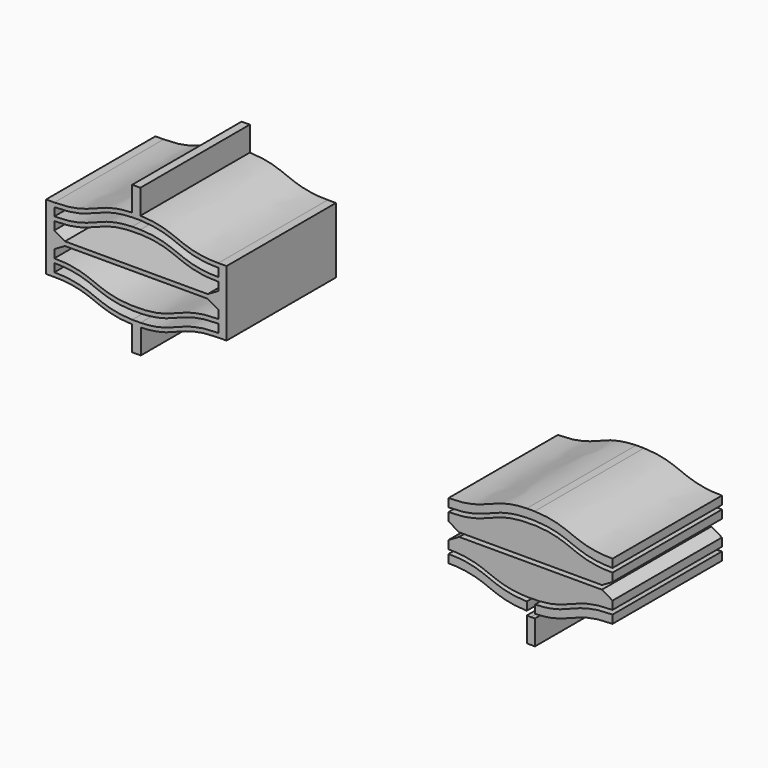
from build123d import *

# Parameters (mm, degrees)
F1_DEPTH = 25


with BuildPart() as f1:
    # F0 (on Front) → F1 (new body)
    with BuildSketch(Plane.XZ):
        with BuildLine():
            Line((-70.5796364978, 35.3922716716), (-72.0796364978, 35.3922716716))
            Line((-72.0796364978, 35.3922716716), (-72.0796364978, 23.3922716716))
            Line((-72.0796364978, 23.3922716716), (-70.5796364978, 23.3922716716))
            add(Edge.make_bspline(
                [(-56.3296364978, 20.4027351039), (-59.5883560247, 20.4957594824), (-63.2089962613, 21.944015577), (-66.8296364978, 23.3922716716), (-70.5796364978, 23.3922716716)],
                knots=[0.0344959369, 0.0344959369, 0.0344959369, 0.0344959369, 0.5, 1, 1, 1, 1], degree=3))
            add(Edge.make_bspline(
                [(-55.5796364978, 20.3922716716), (-55.8383560247, 20.3922716716), (-56.0881507791, 20.3958415806), (-56.3296364978, 20.4027351039)],
                knots=[0, 0, 0, 0, 0.0344959369, 0.0344959369, 0.0344959369, 0.0344959369], degree=3))
            add(Edge.make_bspline(
                [(-54.7598734185, 20.4048260632), (-55.0229364548, 20.3965647366), (-55.2959201451, 20.3922716716), (-55.5796364978, 20.3922716716)],
                knots=[0.962171153, 0.962171153, 0.962171153, 0.962171153, 1, 1, 1, 1], degree=3))
            add(Edge.make_bspline(
                [(-40.5796364978, 23.3922716716), (-44.3296364978, 23.3922716716), (-47.9377783214, 21.9490149422), (-51.5459201451, 20.5057582127), (-54.7598734185, 20.4048260632)],
                knots=[0, 0, 0, 0, 0.5, 0.962171153, 0.962171153, 0.962171153, 0.962171153], degree=3))
            Line((-40.5796364978, 23.3922716716), (-39.0796364978, 23.3922716716))
            Line((-39.0796364978, 23.3922716716), (-39.0796364978, 35.3922716716))
            Line((-39.0796364978, 35.3922716716), (-40.5796364978, 35.3922716716))
            add(Edge.make_bspline(
                [(-54.8296364978, 38.3818082394), (-51.5709169709, 38.2887838609), (-47.9502767344, 36.8405277663), (-44.3296364978, 35.3922716716), (-40.5796364978, 35.3922716716)],
                knots=[0.0344959369, 0.0344959369, 0.0344959369, 0.0344959369, 0.5, 1, 1, 1, 1], degree=3))
            add(Edge.make_bspline(
                [(-55.5796364978, 38.3922716716), (-55.3209169709, 38.3922716716), (-55.0711222165, 38.3887017626), (-54.8296364978, 38.3818082394)],
                knots=[0, 0, 0, 0, 0.0344959369, 0.0344959369, 0.0344959369, 0.0344959369], degree=3))
            add(Edge.make_bspline(
                [(-56.3296364978, 38.3818082394), (-56.0881507791, 38.3887017626), (-55.8383560247, 38.3922716716), (-55.5796364978, 38.3922716716)],
                knots=[0.9655040631, 0.9655040631, 0.9655040631, 0.9655040631, 1, 1, 1, 1], degree=3))
            add(Edge.make_bspline(
                [(-70.5796364978, 35.3922716716), (-66.8296364978, 35.3922716716), (-63.2089962613, 36.8405277663), (-59.5883560247, 38.2887838609), (-56.3296364978, 38.3818082394)],
                knots=[0, 0, 0, 0, 0.5, 0.9655040631, 0.9655040631, 0.9655040631, 0.9655040631], degree=3))
        make_face()
        with BuildLine():
            Line((-70.5796364978, 24.1422716716), (-70.5796364978, 25.6422716716))
            add(Edge.make_bspline(
                [(-56.3296364978, 22.6527351039), (-59.5883560247, 22.7457594824), (-63.2089962613, 24.194015577), (-66.8296364978, 25.6422716716), (-70.5796364978, 25.6422716716)],
                knots=[0.0344959369, 0.0344959369, 0.0344959369, 0.0344959369, 0.5, 1, 1, 1, 1], degree=3))
            add(Edge.make_bspline(
                [(-55.5796364978, 22.6422716716), (-55.8383560247, 22.6422716716), (-56.0881507791, 22.6458415806), (-56.3296364978, 22.6527351039)],
                knots=[0, 0, 0, 0, 0.0344959369, 0.0344959369, 0.0344959369, 0.0344959369], degree=3))
            add(Edge.make_bspline(
                [(-54.8296364978, 22.6527351039), (-55.0711222165, 22.6458415806), (-55.3209169709, 22.6422716716), (-55.5796364978, 22.6422716716)],
                knots=[0.9655040631, 0.9655040631, 0.9655040631, 0.9655040631, 1, 1, 1, 1], degree=3))
            add(Edge.make_bspline(
                [(-40.5796364978, 25.6422716716), (-44.3296364978, 25.6422716716), (-47.9502767344, 24.194015577), (-51.5709169709, 22.7457594824), (-54.8296364978, 22.6527351039)],
                knots=[0, 0, 0, 0, 0.5, 0.9655040631, 0.9655040631, 0.9655040631, 0.9655040631], degree=3))
            Line((-40.5796364978, 25.6422716716), (-40.5796364978, 24.1422716716))
            add(Edge.make_bspline(
                [(-40.5796364978, 24.1422716716), (-44.3296364978, 24.1422716716), (-47.9502767344, 22.694015577), (-51.5709169709, 21.2457594824), (-54.8296364978, 21.1527351039)],
                knots=[0, 0, 0, 0, 0.5, 0.9655040631, 0.9655040631, 0.9655040631, 0.9655040631], degree=3))
            add(Edge.make_bspline(
                [(-54.8296364978, 21.1527351039), (-55.0711222165, 21.1458415806), (-55.3209169709, 21.1422716716), (-55.5796364978, 21.1422716716)],
                knots=[0.9655040631, 0.9655040631, 0.9655040631, 0.9655040631, 1, 1, 1, 1], degree=3))
            add(Edge.make_bspline(
                [(-55.5796364978, 21.1422716716), (-55.8383560247, 21.1422716716), (-56.0881507791, 21.1458415806), (-56.3296364978, 21.1527351039)],
                knots=[0, 0, 0, 0, 0.0344959369, 0.0344959369, 0.0344959369, 0.0344959369], degree=3))
            add(Edge.make_bspline(
                [(-56.3296364978, 21.1527351039), (-59.5883560247, 21.2457594824), (-63.2089962613, 22.694015577), (-66.8296364978, 24.1422716716), (-70.5796364978, 24.1422716716)],
                knots=[0.0344959369, 0.0344959369, 0.0344959369, 0.0344959369, 0.5, 1, 1, 1, 1], degree=3))
        make_face(mode=Mode.SUBTRACT)
        with BuildLine():
            Line((-70.5796364978, 26.3922716716), (-70.5796364978, 27.8922716716))
            Line((-70.5796364978, 27.8922716716), (-68.6310793393, 29.0172716716))
            Line((-68.6310793393, 29.0172716716), (-42.5281936563, 29.0172716716))
            Line((-42.5281936563, 29.0172716716), (-40.5796364978, 27.8922716716))
            Line((-40.5796364978, 27.8922716716), (-40.5796364978, 26.3922716716))
            add(Edge.make_bspline(
                [(-40.5796364978, 26.3922716716), (-44.3296364978, 26.3922716716), (-48.0796364978, 24.8922716716), (-51.8296364978, 23.3922716716), (-55.5796364978, 23.3922716716)],
                knots=[0, 0, 0, 0, 0.5, 1, 1, 1, 1], degree=3))
            add(Edge.make_bspline(
                [(-55.5796364978, 23.3922716716), (-59.3296364978, 23.3922716716), (-63.0796364978, 24.8922716716), (-66.8296364978, 26.3922716716), (-70.5796364978, 26.3922716716)],
                knots=[0, 0, 0, 0, 0.5, 1, 1, 1, 1], degree=3))
        make_face(mode=Mode.SUBTRACT)
        with BuildLine():
            Line((-68.6310793393, 29.7672716716), (-70.5796364978, 30.8922716716))
            Line((-70.5796364978, 30.8922716716), (-70.5796364978, 32.3922716716))
            add(Edge.make_bspline(
                [(-70.5796364978, 32.3922716716), (-66.8296364978, 32.3922716716), (-63.0796364978, 33.8922716716), (-59.3296364978, 35.3922716716), (-55.5796364978, 35.3922716716)],
                knots=[0, 0, 0, 0, 0.5, 1, 1, 1, 1], degree=3))
            add(Edge.make_bspline(
                [(-55.5796364978, 35.3922716716), (-51.8296364978, 35.3922716716), (-48.0796364978, 33.8922716716), (-44.3296364978, 32.3922716716), (-40.5796364978, 32.3922716716)],
                knots=[0, 0, 0, 0, 0.5, 1, 1, 1, 1], degree=3))
            Line((-40.5796364978, 32.3922716716), (-40.5796364978, 30.8922716716))
            Line((-40.5796364978, 30.8922716716), (-42.5281936563, 29.7672716716))
            Line((-42.5281936563, 29.7672716716), (-55.5796364978, 29.7672716716))
            Line((-55.5796364978, 29.7672716716), (-68.6310793393, 29.7672716716))
        make_face(mode=Mode.SUBTRACT)
        with BuildLine():
            Line((-70.5796364978, 33.1422716716), (-70.5796364978, 34.6422716716))
            add(Edge.make_bspline(
                [(-70.5796364978, 34.6422716716), (-66.8296364978, 34.6422716716), (-63.2089962613, 36.0905277663), (-59.5883560247, 37.5387838609), (-56.3296364978, 37.6318082394)],
                knots=[0, 0, 0, 0, 0.5, 0.9655040631, 0.9655040631, 0.9655040631, 0.9655040631], degree=3))
            add(Edge.make_bspline(
                [(-56.3296364978, 37.6318082394), (-56.0881507791, 37.6387017626), (-55.8383560247, 37.6422716716), (-55.5796364978, 37.6422716716)],
                knots=[0.9655040631, 0.9655040631, 0.9655040631, 0.9655040631, 1, 1, 1, 1], degree=3))
            add(Edge.make_bspline(
                [(-55.5796364978, 37.6422716716), (-55.3209169709, 37.6422716716), (-55.0711222165, 37.6387017626), (-54.8296364978, 37.6318082394)],
                knots=[0, 0, 0, 0, 0.0344959369, 0.0344959369, 0.0344959369, 0.0344959369], degree=3))
            add(Edge.make_bspline(
                [(-54.8296364978, 37.6318082394), (-51.5709169709, 37.5387838609), (-47.9502767344, 36.0905277663), (-44.3296364978, 34.6422716716), (-40.5796364978, 34.6422716716)],
                knots=[0.0344959369, 0.0344959369, 0.0344959369, 0.0344959369, 0.5, 1, 1, 1, 1], degree=3))
            Line((-40.5796364978, 34.6422716716), (-40.5796364978, 33.1422716716))
            add(Edge.make_bspline(
                [(-54.8296364978, 36.1318082394), (-51.5709169709, 36.0387838609), (-47.9502767344, 34.5905277663), (-44.3296364978, 33.1422716716), (-40.5796364978, 33.1422716716)],
                knots=[0.0344959369, 0.0344959369, 0.0344959369, 0.0344959369, 0.5, 1, 1, 1, 1], degree=3))
            add(Edge.make_bspline(
                [(-55.5796364978, 36.1422716716), (-55.3209169709, 36.1422716716), (-55.0711222165, 36.1387017626), (-54.8296364978, 36.1318082394)],
                knots=[0, 0, 0, 0, 0.0344959369, 0.0344959369, 0.0344959369, 0.0344959369], degree=3))
            add(Edge.make_bspline(
                [(-56.3296364978, 36.1318082394), (-56.0881507791, 36.1387017626), (-55.8383560247, 36.1422716716), (-55.5796364978, 36.1422716716)],
                knots=[0.9655040631, 0.9655040631, 0.9655040631, 0.9655040631, 1, 1, 1, 1], degree=3))
            add(Edge.make_bspline(
                [(-70.5796364978, 33.1422716716), (-66.8296364978, 33.1422716716), (-63.2089962613, 34.5905277663), (-59.5883560247, 36.0387838609), (-56.3296364978, 36.1318082394)],
                knots=[0, 0, 0, 0, 0.5, 0.9655040631, 0.9655040631, 0.9655040631, 0.9655040631], degree=3))
        make_face(mode=Mode.SUBTRACT)
        with BuildLine():
            Line((-56.3296364978, 42.8818082394), (-56.3296364978, 38.3818082394))
            add(Edge.make_bspline(
                [(-56.3296364978, 38.3818082394), (-56.0881507791, 38.3887017626), (-55.8383560247, 38.3922716716), (-55.5796364978, 38.3922716716)],
                knots=[0.9655040631, 0.9655040631, 0.9655040631, 0.9655040631, 1, 1, 1, 1], degree=3))
            add(Edge.make_bspline(
                [(-55.5796364978, 38.3922716716), (-55.3209169709, 38.3922716716), (-55.0711222165, 38.3887017626), (-54.8296364978, 38.3818082394)],
                knots=[0, 0, 0, 0, 0.0344959369, 0.0344959369, 0.0344959369, 0.0344959369], degree=3))
            Line((-54.8296364978, 38.3818082394), (-54.8296364978, 42.8818082394))
            Line((-54.8296364978, 42.8818082394), (-56.3296364978, 42.8818082394))
        make_face()
        with BuildLine():
            add(Edge.make_bspline(
                [(-55.5796364978, 20.3922716716), (-55.8383560247, 20.3922716716), (-56.0881507791, 20.3958415806), (-56.3296364978, 20.4027351039)],
                knots=[0, 0, 0, 0, 0.0344959369, 0.0344959369, 0.0344959369, 0.0344959369], degree=3))
            Line((-56.3296364978, 20.4027351039), (-56.3296364978, 15.9027351039))
            Line((-56.3296364978, 15.9027351039), (-54.7598734185, 15.9027351039))
            Line((-54.7598734185, 15.9027351039), (-54.7598734185, 20.4048260632))
            add(Edge.make_bspline(
                [(-54.7598734185, 20.4048260632), (-55.0229364548, 20.3965647366), (-55.2959201451, 20.3922716716), (-55.5796364978, 20.3922716716)],
                knots=[0.962171153, 0.962171153, 0.962171153, 0.962171153, 1, 1, 1, 1], degree=3))
        make_face()
    extrude(amount=F1_DEPTH)


with BuildPart() as f1b:
    # F0 (on Front) → F1, piece 2 (new body)
    with BuildSketch(Plane.XZ):
        with BuildLine():
            Line((17.3197630793, -7.4874456084), (17.3197630793, -2.9874456084))
            add(Edge.make_bspline(
                [(17.3197630793, -2.9874456084), (17.0783287173, -2.9950277003), (16.8285379633, -2.9992672354), (16.5697630793, -2.9999131185)],
                knots=[0.962171153, 0.962171153, 0.962171153, 0.962171153, 0.9968897652, 0.9968897652, 0.9968897652, 0.9968897652], degree=3))
            add(Edge.make_bspline(
                [(16.5697630793, -2.9999131185), (16.3109881953, -2.9992672354), (16.0611974413, -2.9950277003), (15.8197630793, -2.9874456084)],
                knots=[0.0031102348, 0.0031102348, 0.0031102348, 0.0031102348, 0.037828847, 0.037828847, 0.037828847, 0.037828847], degree=3))
            Line((15.8197630793, -2.9874456084), (15.8197630793, -7.4874456084))
            Line((15.8197630793, -7.4874456084), (17.3197630793, -7.4874456084))
        make_face()
    extrude(amount=F1_DEPTH)


with BuildPart() as f1c:
    # F0 (on Front) → F1, piece 3 (new body)
    with BuildSketch(Plane.XZ):
        with BuildLine():
            add(Edge.make_bspline(
                [(17.25, 14.2395365677), (20.5087195269, 14.1465121892), (24.1293597634, 12.6982560946), (27.75, 11.25), (31.5, 11.25)],
                knots=[0.0344959369, 0.0344959369, 0.0344959369, 0.0344959369, 0.5, 1, 1, 1, 1], degree=3))
            Line((17.25, 14.2395365677), (17.25, 12.7395365677))
            add(Edge.make_bspline(
                [(17.25, 12.7395365677), (20.5087195269, 12.6465121892), (24.1293597634, 11.1982560946), (27.75, 9.75), (31.5, 9.75)],
                knots=[0.0344959369, 0.0344959369, 0.0344959369, 0.0344959369, 0.5, 1, 1, 1, 1], degree=3))
            Line((31.5, 9.75), (31.5, 11.25))
        make_face()
        with BuildLine():
            Line((17.25, 12.7395365677), (17.25, 14.2395365677))
            add(Edge.make_bspline(
                [(16.5, 14.25), (16.7587195269, 14.25), (17.0085142813, 14.246430091), (17.25, 14.2395365677)],
                knots=[0, 0, 0, 0, 0.0344959369, 0.0344959369, 0.0344959369, 0.0344959369], degree=3))
            add(Edge.make_bspline(
                [(15.8197630793, 14.2414294053), (16.0395181956, 14.2470824798), (16.2661121975, 14.25), (16.5, 14.25)],
                knots=[0.9688149597, 0.9688149597, 0.9688149597, 0.9688149597, 1, 1, 1, 1], degree=3))
            Line((15.8197630793, 14.2414294053), (15.8197630793, 12.7414294053))
            add(Edge.make_bspline(
                [(15.8197630793, 12.7414294053), (16.0395181956, 12.7470824798), (16.2661121975, 12.75), (16.5, 12.75)],
                knots=[0.9688149597, 0.9688149597, 0.9688149597, 0.9688149597, 1, 1, 1, 1], degree=3))
            add(Edge.make_bspline(
                [(16.5, 12.75), (16.7587195269, 12.75), (17.0085142813, 12.746430091), (17.25, 12.7395365677)],
                knots=[0, 0, 0, 0, 0.0344959369, 0.0344959369, 0.0344959369, 0.0344959369], degree=3))
        make_face()
        with BuildLine():
            Line((15.8197630793, 12.7414294053), (15.8197630793, 14.2414294053))
            add(Edge.make_bspline(
                [(1.5, 11.25), (5.25, 11.25), (8.8830560988, 12.7032224395), (12.5161121975, 14.156444879), (15.8197630793, 14.2414294053)],
                knots=[0, 0, 0, 0, 0.5, 0.9688149597, 0.9688149597, 0.9688149597, 0.9688149597], degree=3))
            Line((1.5, 11.25), (1.5, 9.75))
            add(Edge.make_bspline(
                [(1.5, 9.75), (5.25, 9.75), (8.8830560988, 11.2032224395), (12.5161121975, 12.656444879), (15.8197630793, 12.7414294053)],
                knots=[0, 0, 0, 0, 0.5, 0.9688149597, 0.9688149597, 0.9688149597, 0.9688149597], degree=3))
        make_face()
    extrude(amount=F1_DEPTH)


with BuildPart() as f1d:
    # F0 (on Front) → F1, piece 4 (new body)
    with BuildSketch(Plane.XZ):
        with BuildLine():
            Line((3.4485571585, 5.625), (1.5, 4.5))
            Line((1.5, 4.5), (1.5, 3))
            add(Edge.make_bspline(
                [(16.5, 0), (12.75, 0), (9, 1.5), (5.25, 3), (1.5, 3)],
                knots=[0, 0, 0, 0, 0.5, 1, 1, 1, 1], degree=3))
            add(Edge.make_bspline(
                [(31.5, 3), (27.75, 3), (24, 1.5), (20.25, 0), (16.5, 0)],
                knots=[0, 0, 0, 0, 0.5, 1, 1, 1, 1], degree=3))
            Line((31.5, 3), (31.5, 4.5))
            Line((31.5, 4.5), (29.5514428415, 5.625))
            Line((29.5514428415, 5.625), (3.4485571585, 5.625))
        make_face()
    extrude(amount=F1_DEPTH)


with BuildPart() as f1e:
    # F0 (on Front) → F1, piece 5 (new body)
    with BuildSketch(Plane.XZ):
        with BuildLine():
            Line((1.5, 9), (1.5, 7.5))
            Line((1.5, 7.5), (3.4485571585, 6.375))
            Line((3.4485571585, 6.375), (16.5, 6.375))
            Line((16.5, 6.375), (29.5514428415, 6.375))
            Line((29.5514428415, 6.375), (31.5, 7.5))
            Line((31.5, 7.5), (31.5, 9))
            add(Edge.make_bspline(
                [(16.5, 12), (20.25, 12), (24, 10.5), (27.75, 9), (31.5, 9)],
                knots=[0, 0, 0, 0, 0.5, 1, 1, 1, 1], degree=3))
            add(Edge.make_bspline(
                [(1.5, 9), (5.25, 9), (9, 10.5), (12.75, 12), (16.5, 12)],
                knots=[0, 0, 0, 0, 0.5, 1, 1, 1, 1], degree=3))
        make_face()
    extrude(amount=F1_DEPTH)


with BuildPart() as f1f:
    # F0 (on Front) → F1, piece 6 (new body)
    with BuildSketch(Plane.XZ):
        with BuildLine():
            add(Edge.make_bspline(
                [(15.8197630793, -0.7414294053), (12.5161121975, -0.656444879), (8.8830560988, 0.7967775605), (5.25, 2.25), (1.5, 2.25)],
                knots=[0.0311850403, 0.0311850403, 0.0311850403, 0.0311850403, 0.5, 1, 1, 1, 1], degree=3))
            Line((1.5, 2.25), (1.5, 0.75))
            add(Edge.make_bspline(
                [(15.8197630793, -2.2414294053), (12.5161121975, -2.156444879), (8.8830560988, -0.7032224395), (5.25, 0.75), (1.5, 0.75)],
                knots=[0.0311850403, 0.0311850403, 0.0311850403, 0.0311850403, 0.5, 1, 1, 1, 1], degree=3))
            Line((15.8197630793, -2.2414294053), (15.8197630793, -0.7414294053))
        make_face()
    extrude(amount=F1_DEPTH)


with BuildPart() as f1g:
    # F0 (on Front) → F1, piece 7 (new body)
    with BuildSketch(Plane.XZ):
        with BuildLine():
            Line((17.3197630793, -0.7394517892), (17.3197630793, -2.2374456084))
            add(Edge.make_bspline(
                [(31.5, 0.75), (27.75, 0.75), (24.1418581764, -0.6932567294), (20.5337163528, -2.1365134589), (17.3197630793, -2.2374456084)],
                knots=[0, 0, 0, 0, 0.5, 0.962171153, 0.962171153, 0.962171153, 0.962171153], degree=3))
            Line((31.5, 0.75), (31.5, 2.25))
            add(Edge.make_bspline(
                [(31.5, 2.25), (27.7415788331, 2.25), (24.1197297363, 0.8082875483), (20.5654338537, -0.6459845991), (17.3197630793, -0.7394517892)],
                knots=[0, 0, 0, 0, 0.5011228223, 0.9654778966, 0.9654778966, 0.9654778966, 0.9654778966], degree=3))
        make_face()
    extrude(amount=F1_DEPTH)


solid = Compound([f1.part, f1b.part, f1c.part, f1d.part, f1e.part, f1f.part, f1g.part])
